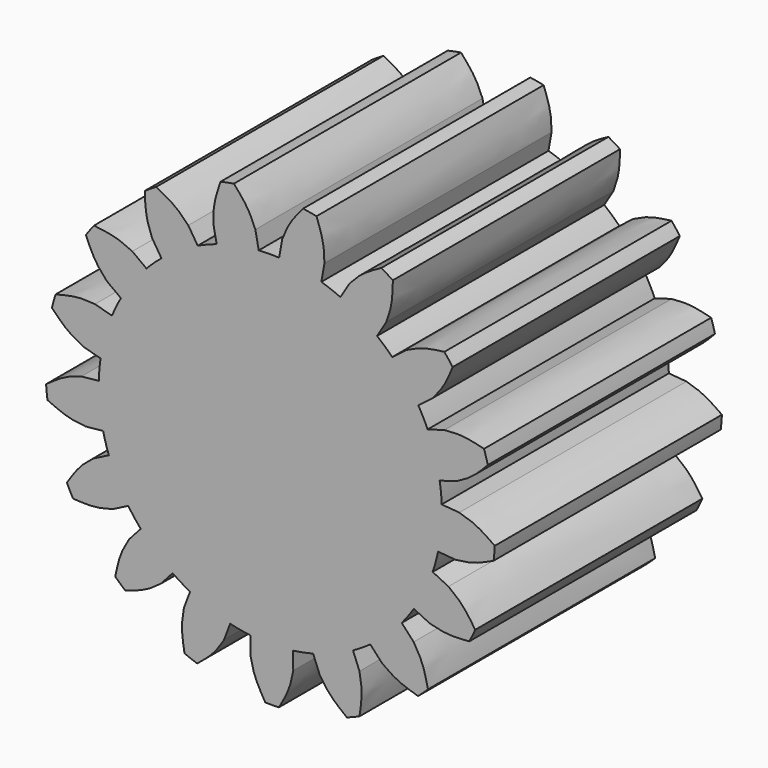
from build123d import *

# Parameters (mm, degrees)
F1_DEPTH = 30
F3_COUNT = 17
F4_DEPTH = 30


with BuildPart() as f1:
    # F0 (on Front) → F1 (new body)
    with BuildSketch(Plane.XZ):
        with BuildLine():
            add(Edge.make_bspline(
                [(-1.579642907, 19.9058898372), (-1.6117271892, 19.978475067), (-1.6986313414, 20.1750809257), (-2.0029837628, 20.9497765357), (-2.6554190206, 22.069680057), (-3.4281862346, 22.9560580116), (-3.8469371657, 23.4363728943)],
                knots=[0, 0, 0, 0, 0.1330072892, 0.3602663017, 0.6533379302, 1, 1, 1, 1], degree=3))
            ThreePointArc((-3.8469371657, 23.4363728943), (-4.5519149342, 23.3097097887), (-5.2527525556, 23.1618455782))
            add(Edge.make_bspline(
                [(-6.0252624513, 19.037750243), (-6.0228428036, 19.1170733926), (-6.0162888955, 19.3319297204), (-6.0257468099, 20.1642122641), (-5.8425661112, 21.4472946832), (-5.4600385098, 22.559278352), (-5.2527525556, 23.1618455782)],
                knots=[0, 0, 0, 0, 0.1330072892, 0.3602663017, 0.6533379302, 1, 1, 1, 1], degree=3))
            Line((-6.0252624513, 19.037750243), (-5.6694134652, 17.2154981328))
            ThreePointArc((-5.6694134652, 17.2154981328), (-3.4738298182, 17.7889890492), (-1.2237939209, 18.0836377269))
            Line((-1.2237939209, 18.0836377269), (-1.579642907, 19.9058898372))
        make_face()
    extrude(amount=F1_DEPTH)


with BuildPart() as f3_1:
    # F3: instance of F1
    add(f1.part.rotate(Axis((0, -23.6377436668, 0), (0, -1, 0)), 1 * 360 / F3_COUNT))


with BuildPart() as f3_2:
    # F3: instance of F1
    add(f1.part.rotate(Axis((0, -23.6377436668, 0), (0, -1, 0)), 2 * 360 / F3_COUNT))


with BuildPart() as f3_3:
    # F3: instance of F1
    add(f1.part.rotate(Axis((0, -23.6377436668, 0), (0, -1, 0)), 3 * 360 / F3_COUNT))


with BuildPart() as f3_4:
    # F3: instance of F1
    add(f1.part.rotate(Axis((0, -23.6377436668, 0), (0, -1, 0)), 4 * 360 / F3_COUNT))


with BuildPart() as f3_5:
    # F3: instance of F1
    add(f1.part.rotate(Axis((0, -23.6377436668, 0), (0, -1, 0)), 5 * 360 / F3_COUNT))


with BuildPart() as f3_6:
    # F3: instance of F1
    add(f1.part.rotate(Axis((0, -23.6377436668, 0), (0, -1, 0)), 6 * 360 / F3_COUNT))


with BuildPart() as f3_7:
    # F3: instance of F1
    add(f1.part.rotate(Axis((0, -23.6377436668, 0), (0, -1, 0)), 7 * 360 / F3_COUNT))


with BuildPart() as f3_8:
    # F3: instance of F1
    add(f1.part.rotate(Axis((0, -23.6377436668, 0), (0, -1, 0)), 8 * 360 / F3_COUNT))


with BuildPart() as f3_9:
    # F3: instance of F1
    add(f1.part.rotate(Axis((0, -23.6377436668, 0), (0, -1, 0)), 9 * 360 / F3_COUNT))


with BuildPart() as f3_10:
    # F3: instance of F1
    add(f1.part.rotate(Axis((0, -23.6377436668, 0), (0, -1, 0)), 10 * 360 / F3_COUNT))


with BuildPart() as f3_11:
    # F3: instance of F1
    add(f1.part.rotate(Axis((0, -23.6377436668, 0), (0, -1, 0)), 11 * 360 / F3_COUNT))


with BuildPart() as f3_12:
    # F3: instance of F1
    add(f1.part.rotate(Axis((0, -23.6377436668, 0), (0, -1, 0)), 12 * 360 / F3_COUNT))


with BuildPart() as f3_13:
    # F3: instance of F1
    add(f1.part.rotate(Axis((0, -23.6377436668, 0), (0, -1, 0)), 13 * 360 / F3_COUNT))


with BuildPart() as f3_14:
    # F3: instance of F1
    add(f1.part.rotate(Axis((0, -23.6377436668, 0), (0, -1, 0)), 14 * 360 / F3_COUNT))


with BuildPart() as f3_15:
    # F3: instance of F1
    add(f1.part.rotate(Axis((0, -23.6377436668, 0), (0, -1, 0)), 15 * 360 / F3_COUNT))


with BuildPart() as f3_16:
    # F3: instance of F1
    add(f1.part.rotate(Axis((0, -23.6377436668, 0), (0, -1, 0)), 16 * 360 / F3_COUNT))


with BuildPart() as f1_1:
    add(f1.part)

    add(f3_1.part)  # F4 merges F3_1

    add(f3_2.part)  # F4 merges F3_2

    add(f3_3.part)  # F4 merges F3_3

    add(f3_4.part)  # F4 merges F3_4

    add(f3_5.part)  # F4 merges F3_5

    add(f3_6.part)  # F4 merges F3_6

    add(f3_7.part)  # F4 merges F3_7

    add(f3_8.part)  # F4 merges F3_8

    add(f3_9.part)  # F4 merges F3_9

    add(f3_10.part)  # F4 merges F3_10

    add(f3_11.part)  # F4 merges F3_11

    add(f3_12.part)  # F4 merges F3_12

    add(f3_13.part)  # F4 merges F3_13

    add(f3_14.part)  # F4 merges F3_14

    add(f3_15.part)  # F4 merges F3_15

    add(f3_16.part)  # F4 merges F3_16
    # F0 (on Front) → F4 (join)
    with BuildSketch(Plane.XZ):
        with BuildLine():
            ThreePointArc((18.125, 0), (12.3760728865, 13.2419199857), (-1.2237939209, 18.0836377269))
            ThreePointArc((-1.2237939209, 18.0836377269), (-3.4738298182, 17.7889890492), (-5.6694134652, 17.2154981328))
            ThreePointArc((-5.6694134652, 17.2154981328), (-10.6244413016, -14.6845793957), (18.125, 0))
        make_face()
    extrude(amount=F4_DEPTH)


solid = f1_1.part
